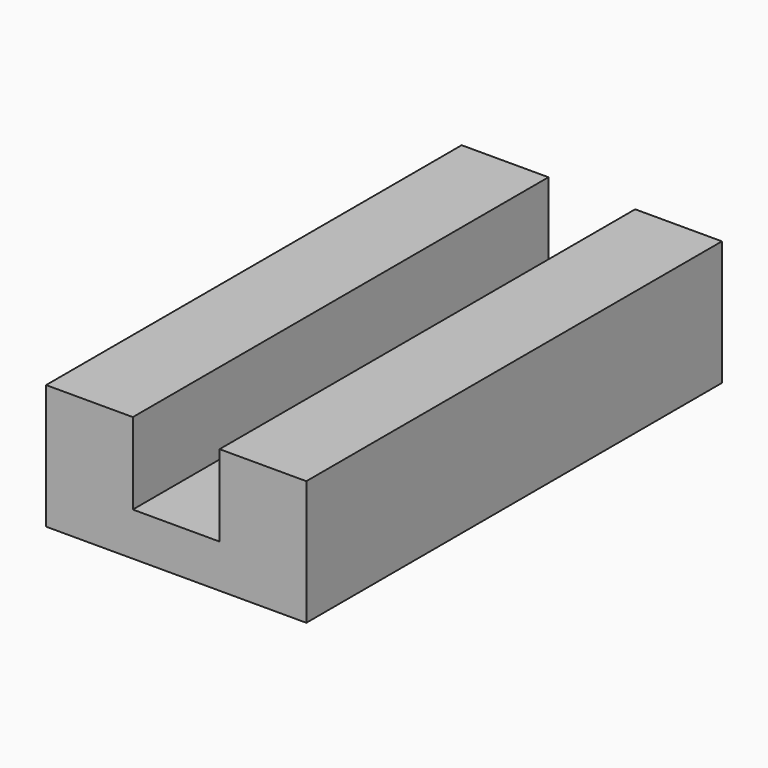
from build123d import *

# Parameters (mm, degrees)
F0_W     = 38.1762
F0_H     = 76.2
F1_DEPTH = 6.35
F2_W     = 12.7254
F2_H     = 76.2
F3_DEPTH = 11.938
F4_DEPTH = 11.938


with BuildPart() as f1:
    # F0 (on Top) → F1 (new body)
    with BuildSketch(Plane.XY):
        Rectangle(F0_W, F0_H)
    extrude(amount=-F1_DEPTH)

    # F2 (on face) → F3 (join)
    with BuildSketch(Plane.XY):
        with Locations((-12.7254, 0)):
            Rectangle(F2_W, F2_H)
    extrude(amount=F3_DEPTH)

    # F2 (on face) → F4 (join)
    with BuildSketch(Plane.XY):
        with Locations((12.7254, 0)):
            Rectangle(F2_W, F2_H)
    extrude(amount=F4_DEPTH)


solid = f1.part
